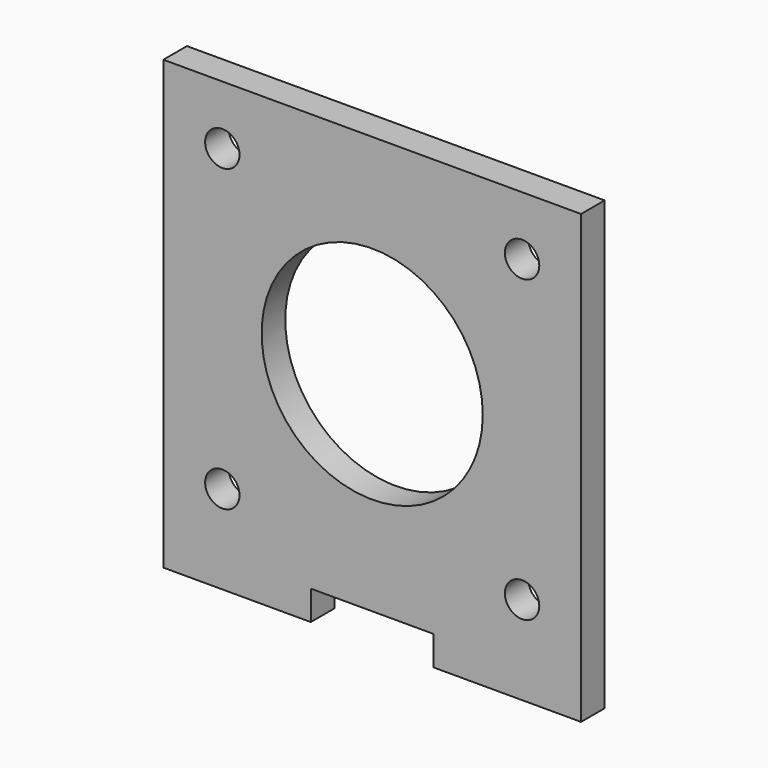
from build123d import *

# Parameters (mm, degrees)
F0_R     = 1.75
F0_R_2   = 11.25
F1_DEPTH = 3


with BuildPart() as f1:
    # F0 (on Front) → F1 (new body)
    with BuildSketch(Plane.XZ):
        Polygon((15, -3), (15, 0), (27.5, 0), (27.5, -3), (42.5, -3), (42.5, 0), (42.5, 42.5), (0, 42.5), (0, 0), (0, -3), align=None)
        with Locations((6, 6)):
            Circle(F0_R, mode=Mode.SUBTRACT)
        with Locations((36.5, 6)):
            Circle(F0_R, mode=Mode.SUBTRACT)
        with Locations((21.25, 21.25)):
            Circle(F0_R_2, mode=Mode.SUBTRACT)
        with Locations((6, 36.5)):
            Circle(F0_R, mode=Mode.SUBTRACT)
        with Locations((36.5, 36.5)):
            Circle(F0_R, mode=Mode.SUBTRACT)
    extrude(amount=F1_DEPTH)


solid = f1.part
